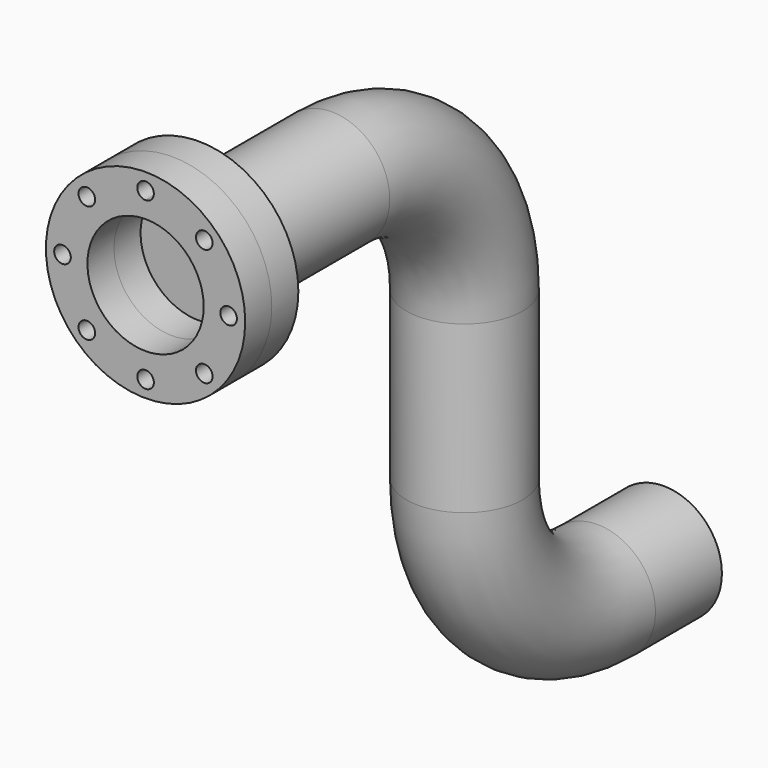
from build123d import *

# Parameters (mm, degrees)
F0_R     = 60
F0_R_2   = 5
F1_DEPTH = 20
F2_R     = 35
F5_DEPTH = 20


with BuildPart() as f1:
    # F0 (on Front) → F1 (new body)
    with BuildSketch(Plane.XZ):
        Circle(F0_R)
        with Locations((-35.3553390593, -35.3553390593)):
            Circle(F0_R_2, mode=Mode.SUBTRACT)
        with Locations((0, -50)):
            Circle(F0_R_2, mode=Mode.SUBTRACT)
        with Locations((35.3553390593, -35.3553390593)):
            Circle(F0_R_2, mode=Mode.SUBTRACT)
        with Locations((-50, 0)):
            Circle(F0_R_2, mode=Mode.SUBTRACT)
        with Locations((-35.3553390593, 35.3553390593)):
            Circle(F0_R_2, mode=Mode.SUBTRACT)
        with BuildLine():
            ThreePointArc((35, 0), (-24.7487373415, -24.7487373415), (0, 35))
            ThreePointArc((0, 35), (24.7487373415, 24.7487373415), (35, 0))
        make_face(mode=Mode.SUBTRACT)
        with Locations((50, 0)):
            Circle(F0_R_2, mode=Mode.SUBTRACT)
        with BuildLine():
            ThreePointArc((5, 50), (3.5355339059, 46.4644660941), (0, 45))
            ThreePointArc((0, 45), (-3.5355339059, 53.5355339059), (5, 50))
        make_face(mode=Mode.SUBTRACT)
        with Locations((35.3553390593, 35.3553390593)):
            Circle(F0_R_2, mode=Mode.SUBTRACT)
    extrude(amount=F1_DEPTH)

    # F4: sweep along a path in F3
    with BuildLine(Plane.YZ) as f4_path:
        Line((0, 0), (100, 0))
        ThreePointArc((100, 0), (170.7106781187, -29.2893218813), (200, -100))
        Line((200, -100), (200, -200))
        ThreePointArc((200, -200), (229.2893218813, -270.7106781187), (300, -300))
        Line((300, -300), (350, -300))
    # F2 (on Front) → F4 (sweep)
    with BuildSketch(Plane.XZ):
        Circle(F2_R)
    sweep(path=f4_path.line)


with BuildPart() as f5:
    # F5 (new): a face of the model
    f5_faces = [f1.part.faces().sort_by_distance(p)[0] for p in [
        (-58.3029437252, -20, 0),
    ]]
    extrude(f5_faces, amount=F5_DEPTH)


solid = Compound([f1.part, f5.part])
